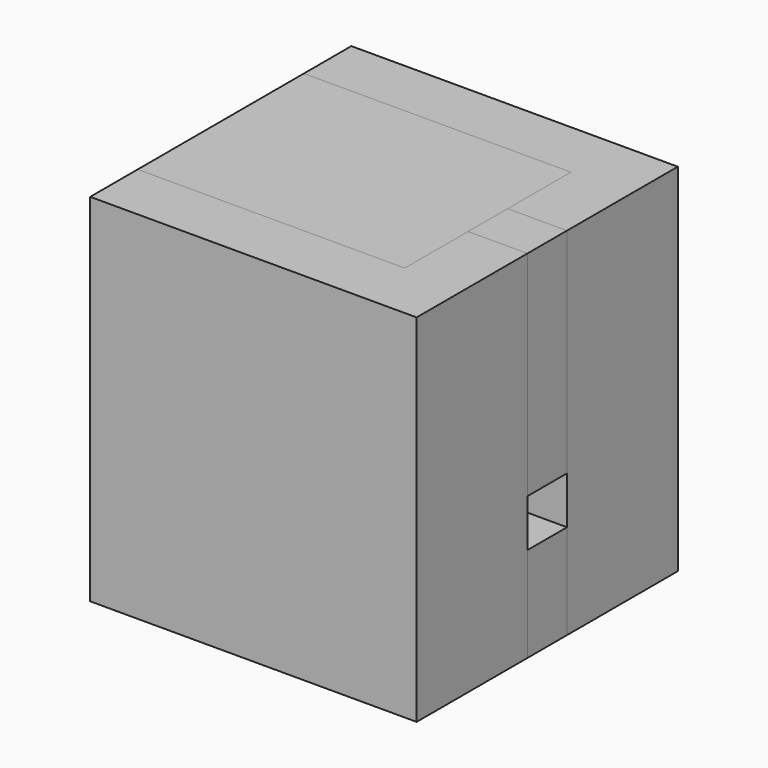
from build123d import *

# Parameters (mm, degrees)
F1_START      = 12.192
F1_DEPTH      = 19.558
F2_DEPTH      = 6.35
F3_DEPTH      = 31.75
F3_DEPTH_BACK = 6.35
F0_W          = 6.35
F0_H          = 5.2916666667
F4_DEPTH      = 6.35
F4_DEPTH_BACK = 3.81
F5_START      = 8.89
F5_DEPTH      = 22.86


with BuildPart() as f1:
    # F0 (on Top) → F1 (new body)
    with BuildSketch(Plane.XY.offset(F1_START)):
        Polygon((11.1125, 11.1125), (-17.4625, 11.1125), (-17.4625, -11.1125), (11.1125, -11.1125), (11.1125, -2.6458333333), (11.1125, 2.6458333333), align=None)
    extrude(amount=F1_DEPTH)


with BuildPart() as f2:
    # F0 (on Top) → F2 (new body)
    with BuildSketch(Plane.XY):
        Polygon((11.1125, 11.1125), (-17.4625, 11.1125), (-17.4625, -11.1125), (11.1125, -11.1125), (11.1125, -2.6458333333), (11.1125, 2.6458333333), align=None)
    extrude(amount=-F2_DEPTH)


with BuildPart() as f3:
    # F0 (on Top) → F3 (new body, two sides)
    with BuildSketch(Plane.XY) as f3_sk:
        Polygon((17.4625, 17.4625), (-17.4625, 17.4625), (-17.4625, 11.1125), (11.1125, 11.1125), (11.1125, 2.6458333333), (17.4625, 2.6458333333), align=None)
    extrude(amount=F3_DEPTH)
    extrude(f3_sk.sketch, amount=-F3_DEPTH_BACK)


with BuildPart() as f3b:
    # F0 (on Top) → F3, piece 2 (new body, two sides)
    with BuildSketch(Plane.XY) as f3_2_sk:
        Polygon((11.1125, -11.1125), (-17.4625, -11.1125), (-17.4625, -17.4625), (17.4625, -17.4625), (17.4625, -2.6458333333), (11.1125, -2.6458333333), align=None)
    extrude(amount=F3_DEPTH)
    extrude(f3_2_sk.sketch, amount=-F3_DEPTH_BACK)


with BuildPart() as f4:
    # F0 (on Top) → F4 (new body, two sides)
    with BuildSketch(Plane.XY) as f4_sk:
        with Locations((14.2875, 0)):
            Rectangle(F0_W, F0_H)
    extrude(amount=-F4_DEPTH)
    extrude(f4_sk.sketch, amount=F4_DEPTH_BACK)


with BuildPart() as f5:
    # F0 (on Top) → F5 (new body)
    with BuildSketch(Plane.XY.offset(F5_START)):
        with Locations((14.2875, 0)):
            Rectangle(F0_W, F0_H)
    extrude(amount=F5_DEPTH)


solid = Compound([f1.part, f2.part, f3.part, f3b.part, f4.part, f5.part])
